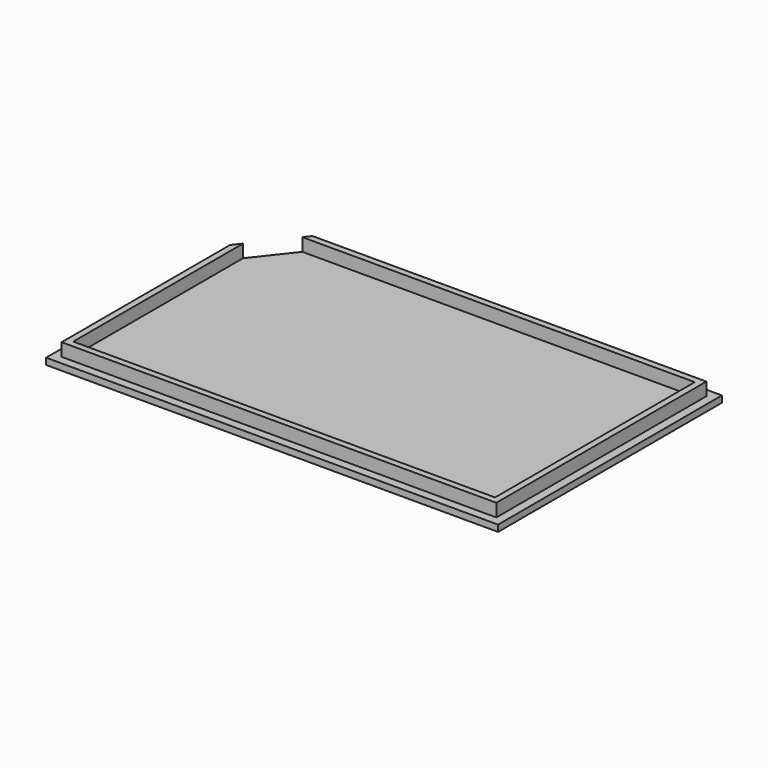
from build123d import *

# Parameters (mm, degrees)
F1_DEPTH = 1.5
F2_W     = 100.99
F2_H     = 60.99
F3_DEPTH = 3
F4_W     = 98
F4_H     = 58
F5_DEPTH = 3
F6_DEPTH = 25


with BuildPart() as f1:
    # F0 (on Top) → F1 (new body)
    with BuildSketch(Plane.XY):
        Polygon((-52.5, -32.5), (52.5, -32.5), (52.5, 32.5), (-39.427131, 32.5), (-52.5, 15.85602), align=None)
        Polygon((-52.5, 32.5), (-52.5, 15.85602), (-39.427131, 32.5), align=None)
    extrude(amount=F1_DEPTH)

    # F2 (on face) → F3 (join)
    with BuildSketch(Plane.XY.offset(1.5)):
        Rectangle(F2_W, F2_H)
    extrude(amount=F3_DEPTH)

    # F4 (on face) → F5 (cut)
    with BuildSketch(Plane.XY.offset(4.5)):
        Rectangle(F4_W, F4_H)
    extrude(amount=-F5_DEPTH, mode=Mode.SUBTRACT)

    # F0 (on Top) → F6 (cut)
    with BuildSketch(Plane.XY):
        Polygon((-52.5, 32.5), (-52.5, 15.85602), (-39.427131, 32.5), align=None)
    extrude(amount=F6_DEPTH, mode=Mode.SUBTRACT)


solid = f1.part
